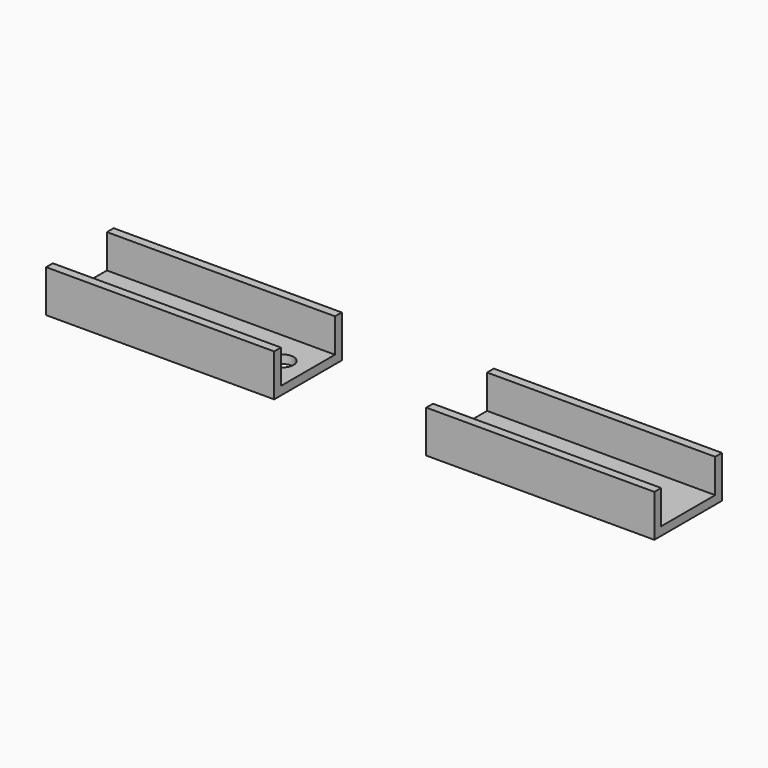
from build123d import *

# Parameters (mm, degrees)
F1_DEPTH = 180
F2_R     = 6.5
F3_DEPTH = 25
F4_W     = 90
F4_H     = 50
F5_DEPTH = 25


with BuildPart() as f1:
    # F0 (on Right) → F1 (new body, symmetric)
    with BuildSketch(Plane.YZ):
        Polygon((-66.153837, 0), (-16.153837, 0), (-16.153837, 25), (-21.153837, 25), (-21.153837, 5), (-61.153837, 5), (-61.153837, 25), (-66.153837, 25), align=None)
    extrude(amount=F1_DEPTH, both=True)

    # F2 (on face) → F3 (cut)
    with BuildSketch(Plane(origin=(0, 0, 0), x_dir=(1, 0, 0), z_dir=(0, 0, -1))):
        with Locations((-60, 41.153837)):
            Circle(F2_R)
        with Locations((60, 41.153837)):
            Circle(F2_R)
    extrude(amount=-F3_DEPTH, mode=Mode.SUBTRACT)

    # F4 (on face) → F5 (cut)
    with BuildSketch(Plane(origin=(0, 0, 0), x_dir=(1, 0, 0), z_dir=(0, 0, -1))):
        with Locations((0, 41.153837)):
            Rectangle(F4_W, F4_H)
    extrude(amount=-F5_DEPTH, mode=Mode.SUBTRACT)


solid = f1.part
